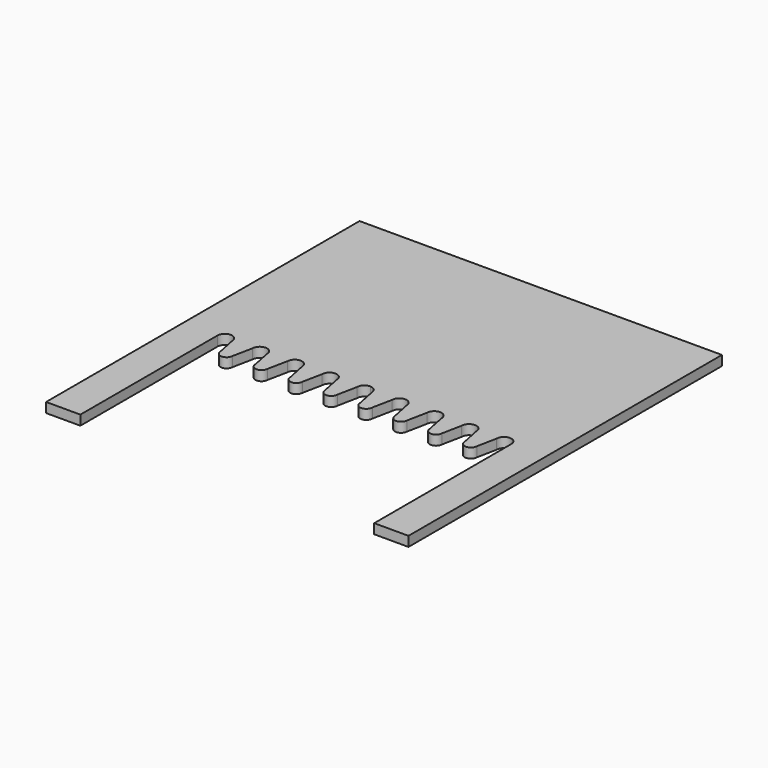
from build123d import *

# Parameters (mm, degrees)
F0_W     = 44.45
F0_H     = 222.25
F1_DEPTH = 12.7


with BuildPart() as f1:
    # F0 (on Top) → F1 (new body)
    with BuildSketch(Plane.XY):
        with BuildLine():
            Line((-227.80625, 254), (-227.80625, -31.75))
            Line((-227.80625, -31.75), (-183.35625, -31.75))
            ThreePointArc((-183.35625, -31.75), (-173.83125, -22.225), (-164.30625, -31.75))
            Line((-164.30625, -31.75), (-138.1125, -31.75))
            ThreePointArc((-138.1125, -31.75), (-128.5875, -22.225), (-119.0625, -31.75))
            Line((-119.0625, -31.75), (-92.86875, -31.75))
            ThreePointArc((-92.86875, -31.75), (-83.34375, -22.225), (-73.81875, -31.75))
            Line((-73.81875, -31.75), (-47.625, -31.75))
            ThreePointArc((-47.625, -31.75), (-38.1, -22.225), (-28.575, -31.75))
            Line((-28.575, -31.75), (-2.38125, -31.75))
            ThreePointArc((-2.38125, -31.75), (0.408558, -25.014808), (7.14375, -22.225))
            Line((7.14375, -22.225), (7.14375, 254))
            Line((7.14375, 254), (-227.80625, 254))
        make_face()
        with Locations((-205.58125, -142.875)):
            Rectangle(F0_W, F0_H)
        with Locations((219.86875, -142.875)):
            Rectangle(F0_W, F0_H)
        with BuildLine():
            ThreePointArc((178.59375, -31.75), (188.11875, -22.225), (197.64375, -31.75))
            Line((197.64375, -31.75), (242.09375, -31.75))
            Line((242.09375, -31.75), (242.09375, 254))
            Line((242.09375, 254), (7.14375, 254))
            Line((7.14375, 254), (7.14375, -22.225))
            ThreePointArc((7.14375, -22.225), (13.878942, -25.014808), (16.66875, -31.75))
            Line((16.66875, -31.75), (42.8625, -31.75))
            ThreePointArc((42.8625, -31.75), (52.3875, -22.225), (61.9125, -31.75))
            Line((61.9125, -31.75), (88.10625, -31.75))
            ThreePointArc((88.10625, -31.75), (97.63125, -22.225), (107.15625, -31.75))
            Line((107.15625, -31.75), (133.35, -31.75))
            ThreePointArc((133.35, -31.75), (142.875, -22.225), (152.4, -31.75))
            Line((152.4, -31.75), (165.496875, -31.75))
            Line((165.496875, -31.75), (178.59375, -31.75))
        make_face()
        with BuildLine():
            Line((173.434375, -57.15), (178.59375, -31.75))
            Line((178.59375, -31.75), (165.496875, -31.75))
            Line((165.496875, -31.75), (165.496875, -49.2125))
            ThreePointArc((165.496875, -49.2125), (171.109535, -51.53734), (173.434375, -57.15))
        make_face()
        with BuildLine():
            Line((165.496875, -49.2125), (165.496875, -31.75))
            Line((165.496875, -31.75), (152.4, -31.75))
            Line((152.4, -31.75), (157.559375, -57.15))
            ThreePointArc((157.559375, -57.15), (159.884215, -51.53734), (165.496875, -49.2125))
        make_face()
        with BuildLine():
            ThreePointArc((157.559375, -57.15), (165.496875, -65.0875), (173.434375, -57.15))
            ThreePointArc((173.434375, -57.15), (171.109535, -51.53734), (165.496875, -49.2125))
            ThreePointArc((165.496875, -49.2125), (159.884215, -51.53734), (157.559375, -57.15))
        make_face()
        with BuildLine():
            Line((128.190625, -57.15), (133.35, -31.75))
            Line((133.35, -31.75), (107.15625, -31.75))
            Line((107.15625, -31.75), (112.315625, -57.15))
            ThreePointArc((112.315625, -57.15), (120.253125, -49.2125), (128.190625, -57.15))
        make_face()
        with BuildLine():
            ThreePointArc((112.315625, -57.15), (120.253125, -65.0875), (128.190625, -57.15))
            ThreePointArc((128.190625, -57.15), (120.253125, -49.2125), (112.315625, -57.15))
        make_face()
        with BuildLine():
            Line((88.10625, -31.75), (61.9125, -31.75))
            Line((61.9125, -31.75), (67.071875, -57.15))
            ThreePointArc((67.071875, -57.15), (75.009375, -49.2125), (82.946875, -57.15))
            Line((82.946875, -57.15), (88.10625, -31.75))
        make_face()
        with BuildLine():
            ThreePointArc((82.946875, -57.15), (75.009375, -49.2125), (67.071875, -57.15))
            ThreePointArc((67.071875, -57.15), (75.009375, -65.0875), (82.946875, -57.15))
        make_face()
        with BuildLine():
            Line((42.8625, -31.75), (16.66875, -31.75))
            Line((16.66875, -31.75), (21.828125, -57.15))
            ThreePointArc((21.828125, -57.15), (29.765625, -49.2125), (37.703125, -57.15))
            Line((37.703125, -57.15), (42.8625, -31.75))
        make_face()
        with BuildLine():
            ThreePointArc((37.703125, -57.15), (29.765625, -49.2125), (21.828125, -57.15))
            ThreePointArc((21.828125, -57.15), (29.765625, -65.0875), (37.703125, -57.15))
        make_face()
        with BuildLine():
            Line((-7.540625, -57.15), (-2.38125, -31.75))
            Line((-2.38125, -31.75), (-28.575, -31.75))
            Line((-28.575, -31.75), (-23.415625, -57.15))
            ThreePointArc((-23.415625, -57.15), (-15.478125, -49.2125), (-7.540625, -57.15))
        make_face()
        with BuildLine():
            ThreePointArc((-23.415625, -57.15), (-15.478125, -65.0875), (-7.540625, -57.15))
            ThreePointArc((-7.540625, -57.15), (-15.478125, -49.2125), (-23.415625, -57.15))
        make_face()
        with BuildLine():
            Line((-47.625, -31.75), (-73.81875, -31.75))
            Line((-73.81875, -31.75), (-68.659375, -57.15))
            ThreePointArc((-68.659375, -57.15), (-60.721875, -49.2125), (-52.784375, -57.15))
            Line((-52.784375, -57.15), (-47.625, -31.75))
        make_face()
        with BuildLine():
            ThreePointArc((-52.784375, -57.15), (-60.721875, -49.2125), (-68.659375, -57.15))
            ThreePointArc((-68.659375, -57.15), (-60.721875, -65.0875), (-52.784375, -57.15))
        make_face()
        with BuildLine():
            Line((-92.86875, -31.75), (-119.0625, -31.75))
            Line((-119.0625, -31.75), (-113.903125, -57.15))
            ThreePointArc((-113.903125, -57.15), (-105.965625, -49.2125), (-98.028125, -57.15))
            Line((-98.028125, -57.15), (-92.86875, -31.75))
        make_face()
        with BuildLine():
            ThreePointArc((-98.028125, -57.15), (-105.965625, -49.2125), (-113.903125, -57.15))
            ThreePointArc((-113.903125, -57.15), (-105.965625, -65.0875), (-98.028125, -57.15))
        make_face()
        with BuildLine():
            Line((-138.1125, -31.75), (-164.30625, -31.75))
            Line((-164.30625, -31.75), (-159.146875, -57.15))
            ThreePointArc((-159.146875, -57.15), (-151.209375, -49.2125), (-143.271875, -57.15))
            Line((-143.271875, -57.15), (-138.1125, -31.75))
        make_face()
        with BuildLine():
            ThreePointArc((-143.271875, -57.15), (-151.209375, -49.2125), (-159.146875, -57.15))
            ThreePointArc((-159.146875, -57.15), (-151.209375, -65.0875), (-143.271875, -57.15))
        make_face()
    extrude(amount=F1_DEPTH)


solid = f1.part
